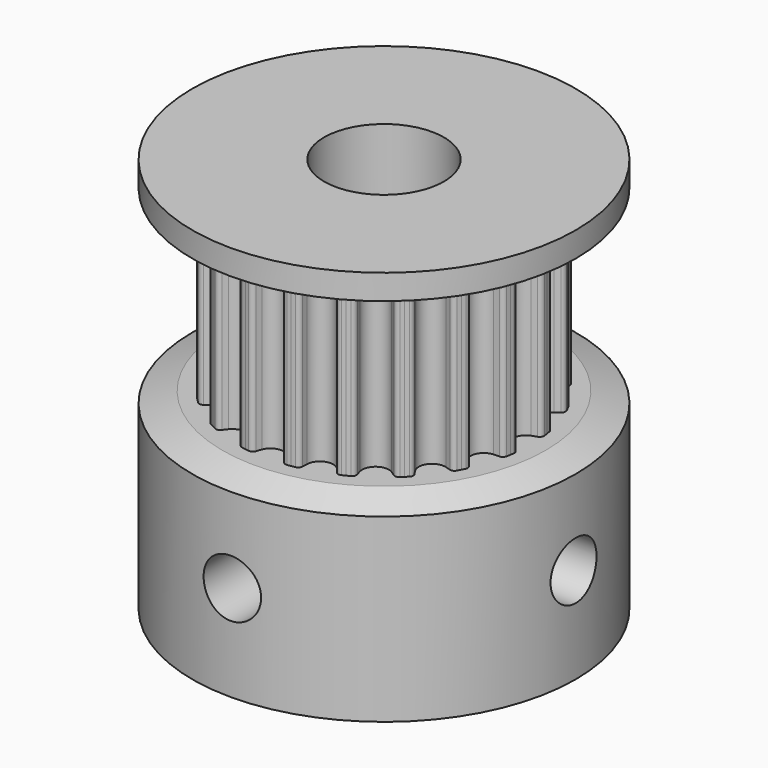
from build123d import *

# Parameters (mm, degrees)
F4_DEPTH  = 3.5
F5_COUNT  = 20
F9_D      = 5
F12_D     = 2.4
F12_DEPTH = 8.001
F13_D     = 2.4
F13_DEPTH = 8.0010001


with BuildPart() as f4:
    # F3 (on Top) → F4 (new body, symmetric)
    with BuildSketch(Plane.XY):
        with BuildLine():
            Line((0.8388325323, 5.2961801716), (0.9561583811, 6.0369464271))
            ThreePointArc((0.9561583811, 6.0369464271), (0.8769247137, 6.0489638832), (0.7975402939, 6.0599414595))
            ThreePointArc((0.7975402939, 6.0599414595), (0.673583382, 6.0329713178), (0.5951684067, 5.9332527328))
            ThreePointArc((0.5951684067, 5.9332527328), (0.5578349377, 5.8252126761), (0.5180414063, 5.7180543045))
            ThreePointArc((0.5180414063, 5.7180543045), (0.3142454474, 5.4597320978), (0, 5.3621977237))
            ThreePointArc((0, 5.3621977237), (-0.3142454474, 5.4597320978), (-0.5180414063, 5.7180543045))
            ThreePointArc((-0.5180414063, 5.7180543045), (-0.5578349377, 5.8252126761), (-0.5951684067, 5.9332527328))
            ThreePointArc((-0.5951684067, 5.9332527328), (-0.673583382, 6.0329713178), (-0.7975402939, 6.0599414595))
            ThreePointArc((-0.7975402939, 6.0599414595), (-0.8769247137, 6.0489638832), (-0.9561583811, 6.0369464271))
            Line((-0.9561583811, 6.0369464271), (-0.8388325323, 5.2961801716))
            Line((-0.8388325323, 5.2961801716), (0, 0))
            Line((0, 0), (0.8388325323, 5.2961801716))
        make_face()
        with BuildLine():
            Line((0.8388325323, 5.2961801716), (0.9561583811, 6.0369464271))
            ThreePointArc((0.9561583811, 6.0369464271), (0.8769247137, 6.0489638832), (0.7975402939, 6.0599414595))
            ThreePointArc((0.7975402939, 6.0599414595), (0.673583382, 6.0329713178), (0.5951684067, 5.9332527328))
            ThreePointArc((0.5951684067, 5.9332527328), (0.5578349377, 5.8252126761), (0.5180414063, 5.7180543045))
            ThreePointArc((0.5180414063, 5.7180543045), (0.3142454474, 5.4597320978), (0, 5.3621977237))
            ThreePointArc((0, 5.3621977237), (-0.3142454474, 5.4597320978), (-0.5180414063, 5.7180543045))
            ThreePointArc((-0.5180414063, 5.7180543045), (-0.5578349377, 5.8252126761), (-0.5951684067, 5.9332527328))
            ThreePointArc((-0.5951684067, 5.9332527328), (-0.673583382, 6.0329713178), (-0.7975402939, 6.0599414595))
            ThreePointArc((-0.7975402939, 6.0599414595), (-0.8769247137, 6.0489638832), (-0.9561583811, 6.0369464271))
            Line((-0.9561583811, 6.0369464271), (-0.8388325323, 5.2961801716))
            Line((-0.8388325323, 5.2961801716), (0, 0))
            Line((0, 0), (0.8388325323, 5.2961801716))
        make_face()
        with BuildLine():
            Line((0.8388325323, 5.2961801716), (0.9561583811, 6.0369464271))
            ThreePointArc((0.9561583811, 6.0369464271), (0.8769247137, 6.0489638832), (0.7975402939, 6.0599414595))
            ThreePointArc((0.7975402939, 6.0599414595), (0.673583382, 6.0329713178), (0.5951684067, 5.9332527328))
            ThreePointArc((0.5951684067, 5.9332527328), (0.5578349377, 5.8252126761), (0.5180414063, 5.7180543045))
            ThreePointArc((0.5180414063, 5.7180543045), (0.3142454474, 5.4597320978), (0, 5.3621977237))
            ThreePointArc((0, 5.3621977237), (-0.3142454474, 5.4597320978), (-0.5180414063, 5.7180543045))
            ThreePointArc((-0.5180414063, 5.7180543045), (-0.5578349377, 5.8252126761), (-0.5951684067, 5.9332527328))
            ThreePointArc((-0.5951684067, 5.9332527328), (-0.673583382, 6.0329713178), (-0.7975402939, 6.0599414595))
            ThreePointArc((-0.7975402939, 6.0599414595), (-0.8769247137, 6.0489638832), (-0.9561583811, 6.0369464271))
            Line((-0.9561583811, 6.0369464271), (-0.8388325323, 5.2961801716))
            Line((-0.8388325323, 5.2961801716), (0, 0))
            Line((0, 0), (0.8388325323, 5.2961801716))
        make_face()
    extrude(amount=F4_DEPTH, both=True)

    # F5: F4 ×20 about axis
    f5_axis = Axis((0, 0, 0), (0, 0, -1))


with BuildPart() as f4_1:
    add(f4.part)
    for i in range(1, F5_COUNT):
        add(f4.part.rotate(f5_axis, i * 360 / F5_COUNT))

    # F6 (on Front) → F7 (revolve)
    with BuildSketch(Plane.XZ):
        Polygon((6.7421977237, -3.5), (0, -3.5), (0, -11.5), (8, -11.5), (8, -3.9578025892), align=None)
        Polygon((0, 5), (0, 3.5), (6.7421977237, 3.5), (8, 3.9578025892), (8, 5), align=None)
    revolve(axis=Axis((0, 0, -7.5), (0, 0, 1)))

    # F9 (through all)
    with Locations(Plane(origin=(0, 0, -11.5), x_dir=(1, 0, 0), z_dir=(0, 0, -1))):
        with Locations((0, 0)):
            Hole(F9_D / 2)

    # F12 (through all, one way)
    with BuildSketch(Plane(origin=(0, 0, 0), x_dir=(1, 0, 0), z_dir=(0, 1, 0))):
        with Locations((0, 7.5)):
            Circle(F12_D / 2)
    extrude(amount=-F12_DEPTH, mode=Mode.SUBTRACT)

    # F13 (through all, one way)
    with BuildSketch(Plane(origin=(0, 0, 0), x_dir=(0, 1, 0), z_dir=(-1, 0, 0))):
        with Locations((0, 7.5)):
            Circle(F13_D / 2)
    extrude(amount=-F13_DEPTH, mode=Mode.SUBTRACT)


solid = f4_1.part
